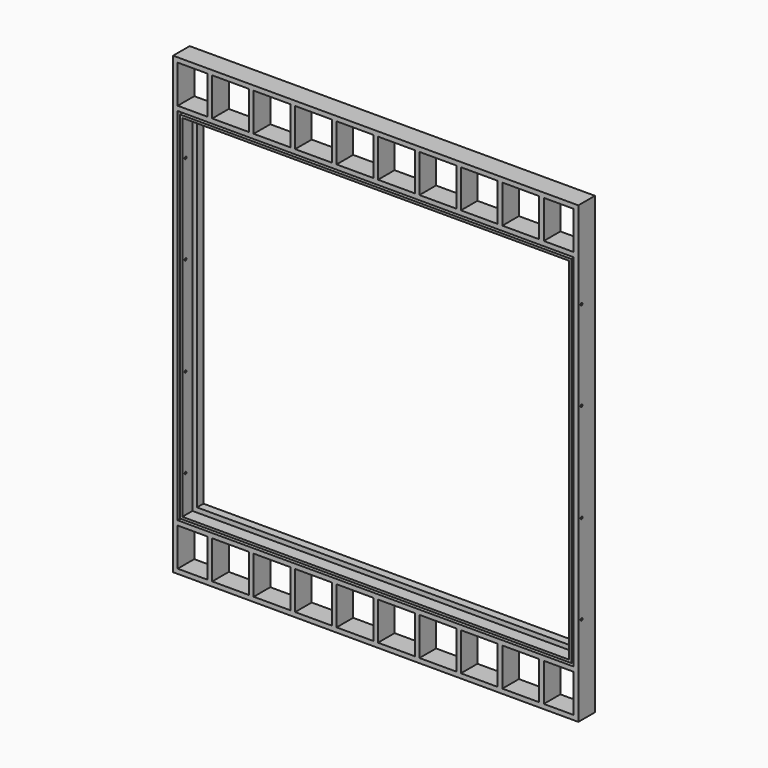
from build123d import *

# Parameters (mm, degrees)
F0_W     = 558.8
F0_H     = 627.0625
F0_W_2   = 6.35
F0_H_2   = 52.3875
F0_W_3   = 6.3499988437
F0_H_3   = 52.3875042677
F0_W_4   = 6.3500062943
F0_W_5   = 6.3499960899
F0_W_6   = 6.349999775
F0_W_7   = 6.3499979123
F1_DEPTH = 28.575
F2_W     = 546.1
F2_H     = 496.8875
F2_W_2   = 527.05
F2_H_2   = 477.8375
F2_W_3   = 520.7
F2_H_3   = 471.4875
F3_DEPTH = 11.1125
F4_DEPTH = 7.9375
F5_W     = 539.75
F5_H     = 490.5375
F5_W_2   = 533.4
F5_H_2   = 484.1875
F6_DEPTH = 17.4625
F7_R     = 1.5875
F8_DEPTH = 762


with BuildPart() as f1:
    # F0 (on Front) → F1 (new body)
    with BuildSketch(Plane.XZ):
        Rectangle(F0_W, F0_H)
        Polygon((-273.05, 254.79375), (-273.05, 307.18125), (-231.775, 307.18125), (-225.425, 307.18125), (-174.625, 307.18125), (-168.275, 307.18125), (-117.475, 307.18125), (-111.125, 307.18125), (-60.325, 307.18125), (-53.975, 307.18125), (-3.175, 307.18125), (3.175, 307.18125), (53.975, 307.18125), (60.325, 307.18125), (111.125, 307.18125), (117.475, 307.18125), (168.275, 307.18125), (174.625, 307.18125), (225.425, 307.18125), (231.775, 307.18125), (273.05, 307.18125), (273.05, 254.79375), (273.05, 248.44375), (273.05, -248.44375), (273.05, -254.7937457323), (273.05, -307.18125), (231.7750166416, -307.18125), (225.4250103474, -307.18125), (174.6250103474, -307.18125), (168.2750040531, -307.18125), (117.4750040531, -307.18125), (111.1249977589, -307.18125), (60.3249977589, -307.18125), (53.9749998465, -307.18125), (3.1749998465, -307.18125), (-3.1749999285, -307.18125), (-53.9749999285, -307.18125), (-60.3249987721, -307.18125), (-111.1249987721, -307.18125), (-117.4749976158, -307.18125), (-168.2749976158, -307.18125), (-174.6250039101, -307.18125), (-225.4250039101, -307.18125), (-231.775, -307.18125), (-273.05, -307.18125), (-273.05, -254.7937457323), (-273.05, -248.44375), (-273.05, 248.44375), align=None, mode=Mode.SUBTRACT)
        with Locations((-228.6, 280.9875)):
            Rectangle(F0_W_2, F0_H_2)
        with Locations((-171.45, 280.9875)):
            Rectangle(F0_W_2, F0_H_2)
        with Locations((-114.3, 280.9875)):
            Rectangle(F0_W_2, F0_H_2)
        with Locations((-57.15, 280.9875)):
            Rectangle(F0_W_2, F0_H_2)
        with Locations((0, 280.9875)):
            Rectangle(F0_W_2, F0_H_2)
        with Locations((57.15, 280.9875)):
            Rectangle(F0_W_2, F0_H_2)
        Polygon((-231.775, 254.79375), (-273.05, 254.79375), (-273.05, 248.44375), (273.05, 248.44375), (273.05, 254.79375), (231.775, 254.79375), (225.425, 254.79375), (174.625, 254.79375), (168.275, 254.79375), (117.475, 254.79375), (111.125, 254.79375), (60.325, 254.79375), (53.975, 254.79375), (3.175, 254.79375), (-3.175, 254.79375), (-53.975, 254.79375), (-60.325, 254.79375), (-111.125, 254.79375), (-117.475, 254.79375), (-168.275, 254.79375), (-174.625, 254.79375), (-225.425, 254.79375), align=None)
        with Locations((114.3, 280.9875)):
            Rectangle(F0_W_2, F0_H_2)
        with Locations((171.45, 280.9875)):
            Rectangle(F0_W_2, F0_H_2)
        Polygon((273.05, -248.44375), (-273.05, -248.44375), (-273.05, -254.7937457323), (-231.775, -254.7937457323), (-225.4250039101, -254.7937457323), (-174.6250039101, -254.7937457323), (-168.2749976158, -254.7937457323), (-117.4749976158, -254.7937457323), (-111.1249987721, -254.7937457323), (-60.3249987721, -254.7937457323), (-53.9749999285, -254.7937457323), (-3.1749999285, -254.7937457323), (3.1749998465, -254.7937457323), (53.9749998465, -254.7937457323), (60.3249977589, -254.7937457323), (111.1249977589, -254.7937457323), (117.4750040531, -254.7937457323), (168.2750040531, -254.7937457323), (174.6250103474, -254.7937457323), (225.4250103474, -254.7937457323), (231.7750166416, -254.7937457323), (273.05, -254.7937457323), align=None)
        with Locations((-114.299998194, -280.9874978662)):
            Rectangle(F0_W_3, F0_H_3)
        with Locations((-171.4500007629, -280.9874978662)):
            Rectangle(F0_W_4, F0_H_3)
        with Locations((-228.600001955, -280.9874978662)):
            Rectangle(F0_W_5, F0_H_3)
        with Locations((-57.1499993503, -280.9874978662)):
            Rectangle(F0_W_3, F0_H_3)
        with Locations((-4.1e-08, -280.9874978662)):
            Rectangle(F0_W_6, F0_H_3)
        with Locations((57.1499988027, -280.9874978662)):
            Rectangle(F0_W_7, F0_H_3)
        with Locations((114.300000906, -280.9874978662)):
            Rectangle(F0_W_4, F0_H_3)
        with Locations((171.4500072002, -280.9874978662)):
            Rectangle(F0_W_4, F0_H_3)
        with Locations((228.6000134945, -280.9874978662)):
            Rectangle(F0_W_4, F0_H_3)
        with Locations((228.6, 280.9875)):
            Rectangle(F0_W_2, F0_H_2)
    extrude(amount=F1_DEPTH)

    # F2 (on face) → F3 (join)
    with BuildSketch(Plane(origin=(0, 0, 0), x_dir=(-1, 0, 0), z_dir=(0, 1, 0))):
        Rectangle(F2_W, F2_H)
        Rectangle(F2_W_2, F2_H_2, mode=Mode.SUBTRACT)
        Rectangle(F2_W_2, F2_H_2)
        Rectangle(F2_W_3, F2_H_3, mode=Mode.SUBTRACT)
    extrude(amount=-F3_DEPTH)

    # F2 (on face) → F4 (cut)
    with BuildSketch(Plane(origin=(0, 0, 0), x_dir=(-1, 0, 0), z_dir=(0, 1, 0))):
        Rectangle(F2_W, F2_H)
        Rectangle(F2_W_2, F2_H_2, mode=Mode.SUBTRACT)
    extrude(amount=-F4_DEPTH, mode=Mode.SUBTRACT)

    # F5 (on face) → F6 (join)
    with BuildSketch(Plane.XZ.offset(11.1125)):
        Rectangle(F5_W, F5_H)
        Rectangle(F5_W_2, F5_H_2, mode=Mode.SUBTRACT)
    extrude(amount=F6_DEPTH)

    # F7 (on face) → F8 (cut, symmetric)
    with BuildSketch(Plane(origin=(266.7, 0, 0), x_dir=(0, -1, 0), z_dir=(-1, 0, 0))):
        with Locations((23.01875, 191.29375)):
            Circle(F7_R)
        with Locations((23.01875, 68.10375)):
            Circle(F7_R)
        with Locations((23.01875, -191.29375)):
            Circle(F7_R)
        with Locations((23.01875, -68.10375)):
            Circle(F7_R)
    extrude(amount=F8_DEPTH, both=True, mode=Mode.SUBTRACT)


solid = f1.part
